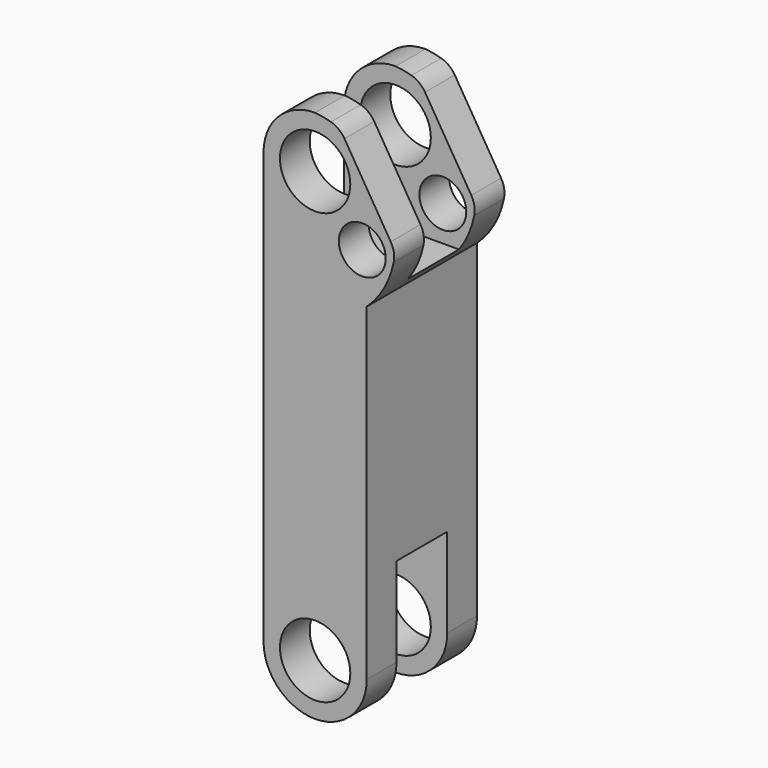
from build123d import *

# Parameters (mm, degrees)
F1_DEPTH = 147
F2_R     = 37.5
F2_R_2   = 25
F3_DEPTH = 147.001
F5_DEPTH = 147.001
F6_R     = 25
F7_W     = 67.6
F7_H     = 95
F7_H_2   = 55
F8_DEPTH = 139.2839551991


with BuildPart() as f1:
    # F0 (on Front) → F1 (new body)
    with BuildSketch(Plane.XZ):
        with BuildLine():
            Line((55, -229.4613795656), (55, 120.3808841783))
            ThreePointArc((55, 120.3808841783), (80.7033356829, 220.2549606622), (0, 284.4613795656))
            ThreePointArc((0, 284.4613795656), (-38.8908729653, 268.3522525309), (-55, 229.4613795656))
            Line((-55, 229.4613795656), (-55, -229.4613795656))
            ThreePointArc((-55, -229.4613795656), (-38.8908729653, -268.3522525309), (0, -284.4613795656))
            ThreePointArc((0, -284.4613795656), (38.8908729653, -268.3522525309), (55, -229.4613795656))
        make_face()
    extrude(amount=F1_DEPTH)

    # F2 (on face) → F3 (cut, through all)
    with BuildSketch(Plane.XZ.offset(147)):
        with Locations((0, 229.4613795656)):
            Circle(F2_R)
        with Locations((0, -229.4613795656)):
            Circle(F2_R)
        with Locations((50.271846354, 172.1997708082)):
            Circle(F2_R_2)
    extrude(amount=-F3_DEPTH, mode=Mode.SUBTRACT)

    # F4 (on face) → F5 (cut, through all)
    with BuildSketch(Plane.XZ.offset(147)):
        with BuildLine():
            ThreePointArc((85.2657948536, 181.983535776), (71.7102726141, 239.5566412204), (26.6566362615, 277.878756312))
            Line((26.6566362615, 277.878756312), (85.2657948536, 181.983535776))
        make_face()
    extrude(amount=-F5_DEPTH, mode=Mode.SUBTRACT)

    # F6
    f6_edges = [f1.edges().sort_by_distance(p)[0] for p in [
        (85.265795, -73.5, 181.983536),
        (26.656636, -73.5, 277.878756),
    ]]
    fillet(f6_edges, radius=F6_R)

    # F7 (on face) → F8 (cut, through all)
    with BuildSketch(Plane(origin=(-55, 0, 0), x_dir=(0, -1, 0), z_dir=(-1, 0, 0))):
        with Locations((73.5, -181.9613795656)):
            Rectangle(F7_W, F7_H)
        with Locations((73.5, -256.9613795656)):
            Rectangle(F7_W, F7_H_2)
        with Locations((73.5, 181.9613795656)):
            Rectangle(F7_W, F7_H)
        with Locations((73.5, 256.9613795656)):
            Rectangle(F7_W, F7_H_2)
    extrude(amount=-F8_DEPTH, mode=Mode.SUBTRACT)


solid = f1.part
